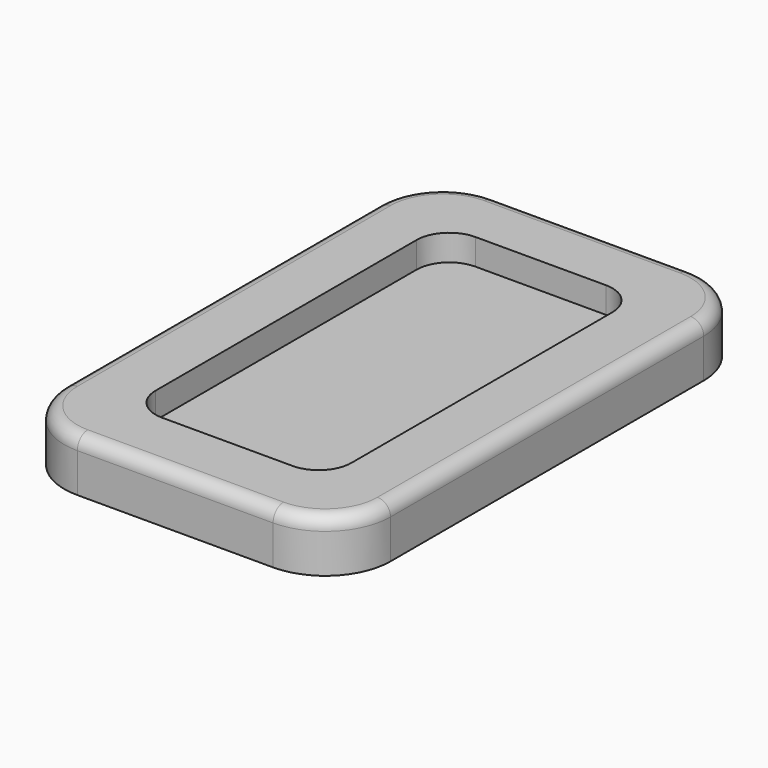
from build123d import *

# Parameters (mm, degrees)
F1_DEPTH = 8
F2_R     = 2
F4_DEPTH = 4


with BuildPart() as f1:
    # F0 (on Top) → F1 (new body)
    with BuildSketch(Plane.XY):
        with BuildLine():
            Line((-15, -40), (15, -40))
            ThreePointArc((15, -40), (22.071068, -37.071068), (25, -30))
            Line((25, -30), (25, 30))
            ThreePointArc((25, 30), (22.071068, 37.071068), (15, 40))
            Line((15, 40), (-15, 40))
            ThreePointArc((-15, 40), (-22.071068, 37.071068), (-25, 30))
            Line((-25, 30), (-25, -30))
            ThreePointArc((-25, -30), (-22.071068, -37.071068), (-15, -40))
        make_face()
    extrude(amount=F1_DEPTH)

    # F2
    f2_edges = [f1.edges().sort_by_distance(p)[0] for p in [
        (0, -40, 8),
        (22.071068, -37.071068, 8),
        (25, 0, 8),
        (22.071068, 37.071068, 8),
        (0, 40, 8),
        (-22.071068, 37.071068, 8),
        (-25, 0, 8),
        (-22.071068, -37.071068, 8),
    ]]
    fillet(f2_edges, radius=F2_R)

    # F3 (on face) → F4 (cut)
    with BuildSketch(Plane.XY.offset(8)):
        with BuildLine():
            Line((-10, -30), (10, -30))
            ThreePointArc((10, -30), (13.535534, -28.535534), (15, -25))
            Line((15, -25), (15, 25))
            ThreePointArc((15, 25), (13.535534, 28.535534), (10, 30))
            Line((10, 30), (-10, 30))
            ThreePointArc((-10, 30), (-13.535534, 28.535534), (-15, 25))
            Line((-15, 25), (-15, -25))
            ThreePointArc((-15, -25), (-13.535534, -28.535534), (-10, -30))
        make_face()
    extrude(amount=-F4_DEPTH, mode=Mode.SUBTRACT)


solid = f1.part
